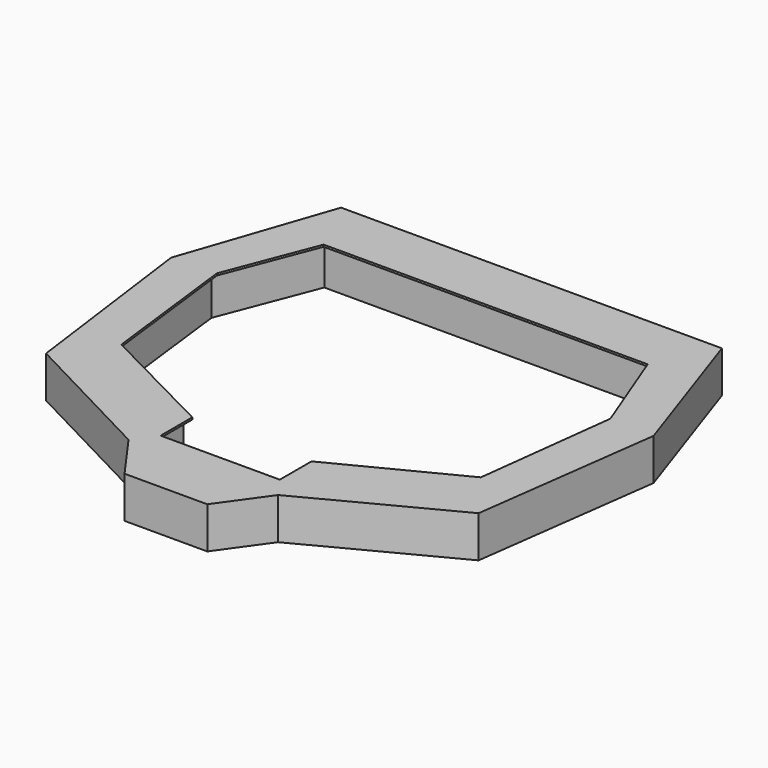
from build123d import *

# Parameters (mm, degrees)
F1_DEPTH = 5
F3_DEPTH = 0.25


with BuildPart() as f1:
    # F0 (on Top) → F1 (new body)
    with BuildSketch(Plane.XY):
        Polygon((30.435256, 14.148653), (24.013904, 32.973976), (-24.130734, 32.973976), (-30.552087, 14.148653), (-27.398583, -9.549574), (-9.509805, -18.882845), (-5.287963, -24.793421), (5.171133, -24.793421), (9.392975, -18.882845), (27.281753, -9.549574), align=None)
        Polygon((-25.696742, 14.449868), (-21.055178, 26.477511), (20.938348, 26.477511), (25.579911, 14.449868), (23.35802, -3.916223), (8.224674, -11.661012), (8.224673, -16.961019), (-8.341502, -16.961019), (-8.341504, -11.661012), (-23.47485, -3.916223), align=None, mode=Mode.SUBTRACT)
    extrude(amount=F1_DEPTH)

    # F2 (on face) → F3 (join)
    with BuildSketch(Plane.XY.offset(5)):
        Polygon((30.435256, 14.148653), (24.013904, 32.973976), (-24.130734, 32.973976), (-30.552087, 14.148653), (-27.398583, -9.549574), (-9.509805, -18.882845), (-5.287963, -24.793421), (5.171133, -24.793421), (9.392975, -18.882845), (27.281753, -9.549574), align=None)
        Polygon((-25.696742, 14.449868), (-21.055178, 26.477511), (20.938348, 26.477511), (25.579911, 14.449868), (23.35802, -3.916223), (8.224674, -11.661012), (8.224673, -16.961019), (-8.341502, -16.961019), (-8.341504, -11.661012), (-23.47485, -3.916223), align=None, mode=Mode.SUBTRACT)
        Polygon((20.938348, 26.477511), (-21.055178, 26.477511), (-25.696742, 14.449868), (-23.47485, -3.916223), (-8.341504, -11.661012), (-8.341502, -16.961019), (8.224673, -16.961019), (8.224674, -11.661012), (23.35802, -3.916223), (25.579911, 14.449868), align=None)
        Polygon((-22.778174, -3.430251), (-24.929712, 14.354302), (-20.5407, 25.727511), (20.42387, 25.727511), (24.812882, 14.354302), (22.661344, -3.430251), (7.474674, -11.202329), (7.474673, -16.211019), (-7.591502, -16.211019), (-7.591504, -11.202329), align=None, mode=Mode.SUBTRACT)
    extrude(amount=F3_DEPTH)


solid = f1.part
